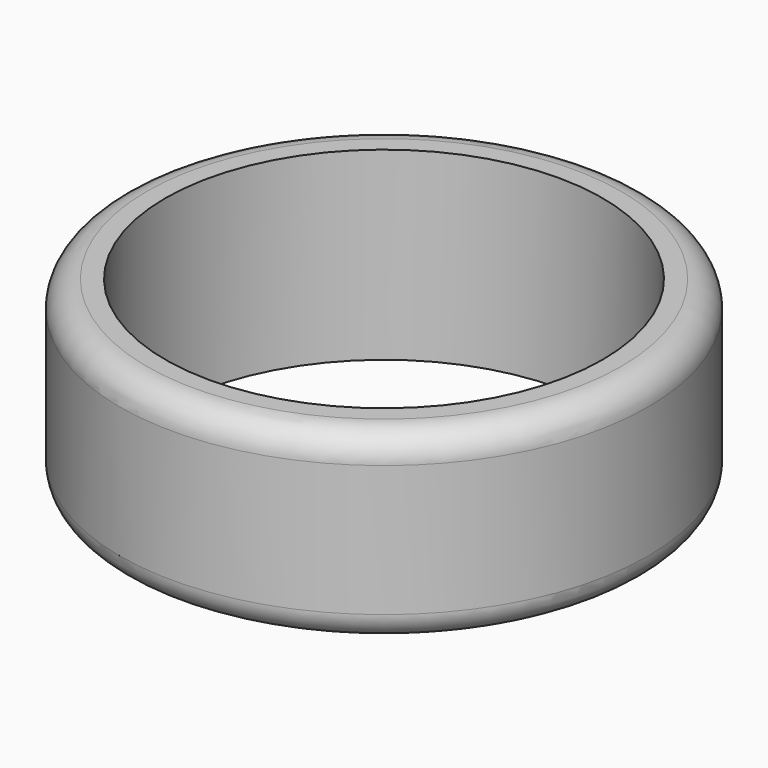
from build123d import *

# Parameters (mm, degrees)
SKETCH_R   = 7.85
SKETCH_R_2 = 6.5
PAD_DEPTH  = 5.5
FILLET_R   = 0.8


with BuildPart() as part:
    # Sketch → Pad (new body)
    with BuildSketch(Plane.XY):
        Circle(SKETCH_R)
        Circle(SKETCH_R_2, mode=Mode.SUBTRACT)
    extrude(amount=PAD_DEPTH)

    # Fillet
    fillet_edges = [part.edges().sort_by_distance(p)[0] for p in [
        (7.85, 0, 2.75),
        (-7.85, 0, 0),
        (-7.85, 0, 5.5),
    ]]
    fillet(fillet_edges, radius=FILLET_R)


solid = part.part
